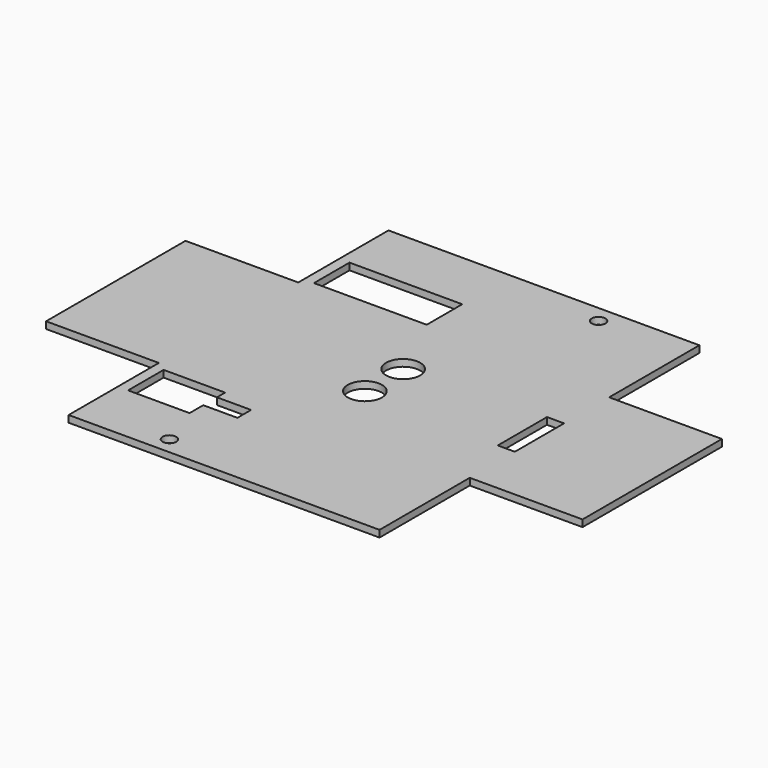
from build123d import *

# Parameters (mm, degrees)
F0_W     = 91
F0_H     = 33
F0_W_2   = 33
F0_H_2   = 13
F0_H_3   = 51
F1_DEPTH = 2
F2_D     = 4
F3_D     = 10


with BuildPart() as f1:
    # F0 (on Top) → F1 (new body)
    with BuildSketch(Plane.XY):
        Polygon((45.5, 9), (45.5, 25.5), (-45.5, 25.5), (-45.5, -25.5), (45.5, -25.5), (45.5, -9), (40.5, -9), (40.5, 9), align=None)
        Polygon((78.5, 25.5), (45.5, 25.5), (45.5, 9), (45.5, -9), (45.5, -25.5), (78.5, -25.5), align=None)
        with Locations((0, 42)):
            Rectangle(F0_W, F0_H)
        with Locations((-26, 34)):
            Rectangle(F0_W_2, F0_H_2, mode=Mode.SUBTRACT)
        with Locations((-62, 0)):
            Rectangle(F0_W_2, F0_H_3)
        with Locations((0, -42)):
            Rectangle(F0_W, F0_H)
        Polygon((-24.5, -40.5), (-42.5, -40.5), (-42.5, -27.5), (-24.5, -27.5), (-24.5, -30.5), (-14.5, -30.5), (-14.5, -35.5), (-24.5, -35.5), align=None, mode=Mode.SUBTRACT)
    extrude(amount=F1_DEPTH)

    # F2 (through all)
    with Locations(Plane(origin=(0, 0, 0), x_dir=(1, 0, 0), z_dir=(0, 0, -1))):
        with Locations((-20, 53.5), (20, -53.5)):
            Hole(F2_D / 2)

    # F3 (through all)
    with Locations(Plane(origin=(0, 0, 0), x_dir=(1, 0, 0), z_dir=(0, 0, -1))):
        with Locations((0, -7), (0, 7)):
            Hole(F3_D / 2)


solid = f1.part
